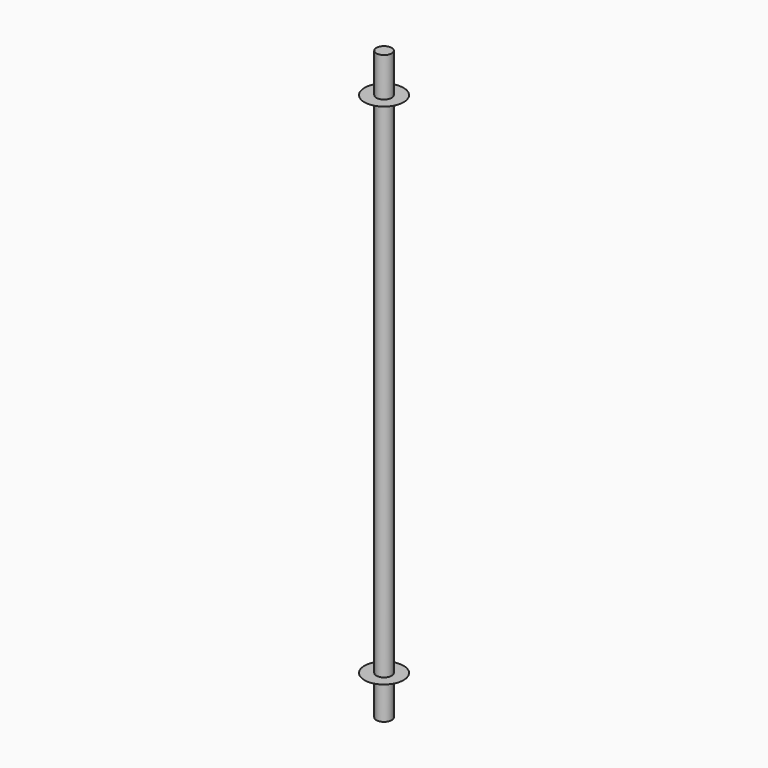
from build123d import *

# Parameters (mm, degrees)
F0_R     = 3.9
F1_DEPTH = 300
F3_R     = 10
F4_DEPTH = 0.001
F6_R     = 10
F7_DEPTH = 0.001


with BuildPart() as f1:
    # F0 (on Top) → F1 (new body)
    with BuildSketch(Plane.XY):
        Circle(F0_R)
    extrude(amount=-F1_DEPTH)

    # F3 (on offset) → F4 (join)
    with BuildSketch(Plane(origin=(0, 0, -280), x_dir=(1, 0, 0), z_dir=(0, 0, -1))):
        Circle(F3_R)
    extrude(amount=-F4_DEPTH)

    # F6 (on offset) → F7 (join)
    with BuildSketch(Plane.XY.offset(-20)):
        Circle(F6_R)
    extrude(amount=-F7_DEPTH)


solid = f1.part
